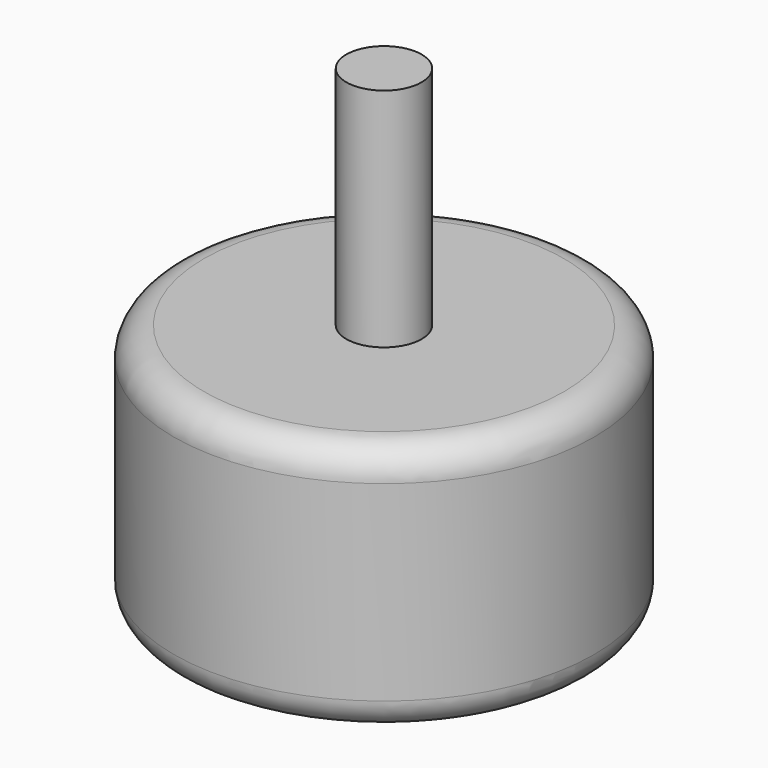
from build123d import *

# Parameters (mm, degrees)
SKETCH_R     = 13.95
SKETCH_R_2   = 1.5
PAD_DEPTH    = 5
SKETCH001_R  = 13.95
PAD001_DEPTH = 11.7
SKETCH002_R  = 2.5
PAD002_DEPTH = 15
FILLET_R     = 2
FILLET001_R  = 2


with BuildPart() as part:
    # Sketch → Pad (new body)
    with BuildSketch(Plane.XY):
        with Locations((-16.282767, 14.793005)):
            Circle(SKETCH_R)
        with Locations((-25.269844, 17.872364)):
            Circle(SKETCH_R_2, mode=Mode.SUBTRACT)
        with Locations((-18.875912, 7.22494)):
            Circle(SKETCH_R_2, mode=Mode.SUBTRACT)
        with Locations((-7.295691, 11.713645)):
            Circle(SKETCH_R_2, mode=Mode.SUBTRACT)
        with Locations((-13.689622, 22.361069)):
            Circle(SKETCH_R_2, mode=Mode.SUBTRACT)
    extrude(amount=PAD_DEPTH)

    # Sketch001 → Pad001 (new body)
    with BuildSketch(Plane.XY.offset(5)):
        with Locations((-16.282767, 14.793005)):
            Circle(SKETCH001_R)
    extrude(amount=PAD001_DEPTH)

    # Sketch002 → Pad002 (new body)
    with BuildSketch(Plane.XY.offset(16.7)):
        with Locations((-16.282767, 14.793005)):
            Circle(SKETCH002_R)
    extrude(amount=PAD002_DEPTH)

    # Fillet
    fillet_edges = [part.edges().sort_by_distance(p)[0] for p in [
        (-30.232767, 14.793005, 16.7),
    ]]
    fillet(fillet_edges, radius=FILLET_R)

    # Fillet001
    fillet001_edges = [part.edges().sort_by_distance(p)[0] for p in [
        (-30.232767, 14.793005, 0),
    ]]
    fillet(fillet001_edges, radius=FILLET001_R)


solid = part.part
